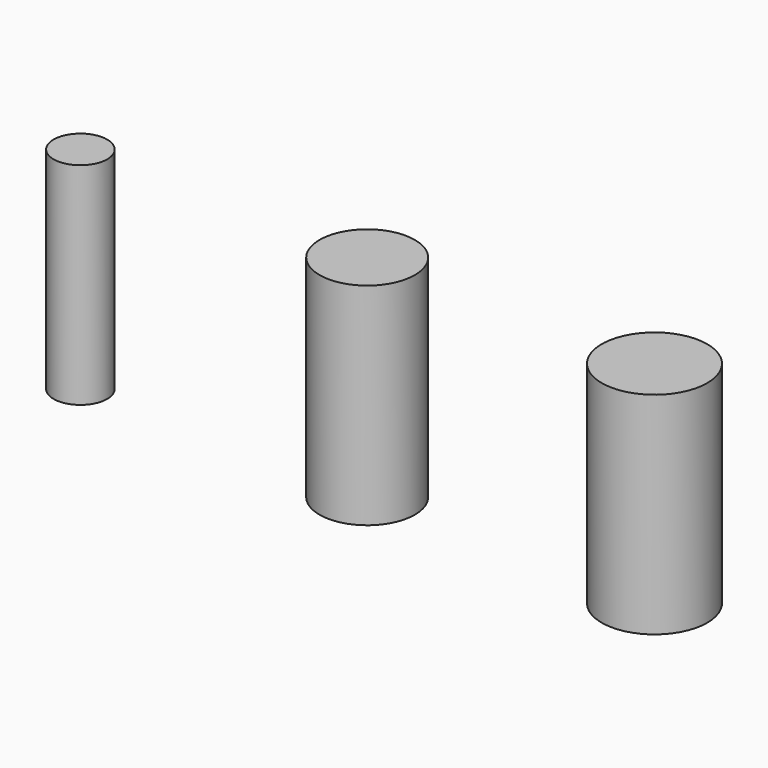
from build123d import *

# Parameters (mm, degrees)
F0_R     = 127
F1_DEPTH = 1000
F0_R_2   = 225.7749310212
F0_R_3   = 250


with BuildPart() as f1:
    # F0 (on Top) → F1 (new body)
    with BuildSketch(Plane.XY):
        with Locations((-132.6715648174, 13.2535444573)):
            Circle(F0_R)
    extrude(amount=F1_DEPTH)


with BuildPart() as f1b:
    # F0 (on Top) → F1, piece 2 (new body)
    with BuildSketch(Plane.XY):
        with Locations((407.014131546, 0)):
            Circle(F0_R_2)
    extrude(amount=F1_DEPTH)


with BuildPart() as f1c:
    # F0 (on Top) → F1, piece 3 (new body)
    with BuildSketch(Plane.XY):
        with Locations((1208.5084915161, 0)):
            Circle(F0_R_3)
    extrude(amount=F1_DEPTH)


with BuildPart() as f1c_1:
    # F2: moved
    add(f1c.part.moved(Location((1390, 0, 0))))


with BuildPart() as f1b_1:
    # F3: moved
    add(f1b.part.moved(Location((830, 0, 0))))


solid = Compound([f1.part, f1c_1.part, f1b_1.part])
